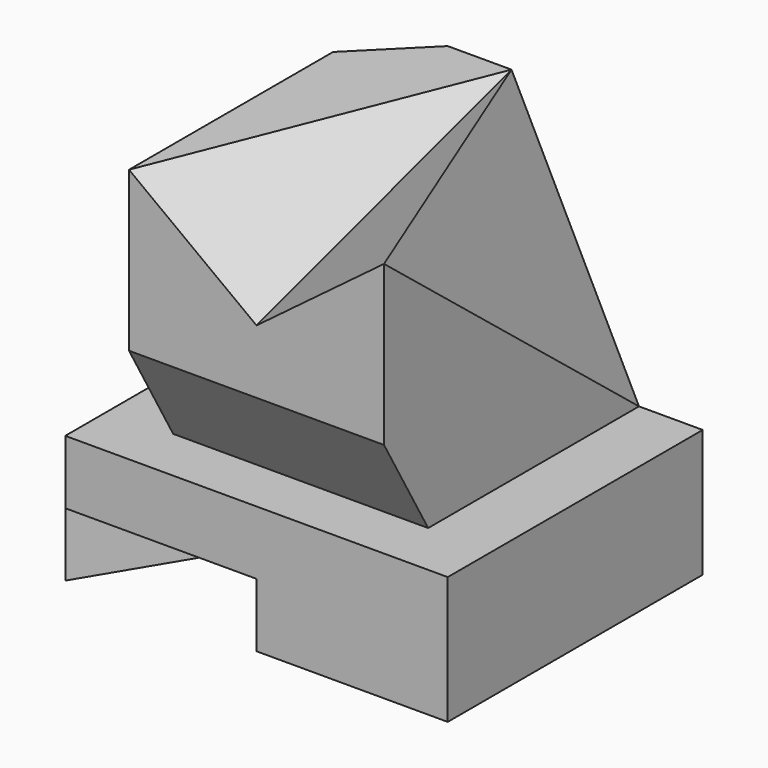
from build123d import *

# Parameters (mm, degrees)
F0_W     = 60
F0_H     = 50
F1_DEPTH = 20
F2_W     = 40
F2_H     = 50
F3_DEPTH = 40
F5_DEPTH = 40
F7_DEPTH = 10
F14_SIZE = 10


with BuildPart() as f1:
    # F0 (on Top) → F1 (new body)
    with BuildSketch(Plane.XY):
        with Locations((0, -2.2433525367)):
            Rectangle(F0_W, F0_H)
    extrude(amount=F1_DEPTH)

    # F2 (on face) → F3 (join)
    with BuildSketch(Plane.XY.offset(20)):
        with Locations((0, -2.2433525367)):
            Rectangle(F2_W, F2_H)
    extrude(amount=F3_DEPTH)

    # F4 (on face) → F5 (cut, through all)
    with BuildSketch(Plane.YZ.offset(20)):
        Polygon((-18.5830984988, 20), (-27.2433525367, 35), (-27.2433525367, 20), align=None)
    extrude(amount=-F5_DEPTH, mode=Mode.SUBTRACT)

    # F6 (on face) → F7 (cut)
    with BuildSketch(Plane(origin=(0, 0, 0), x_dir=(1, 0, 0), z_dir=(0, 0, -1))):
        Polygon((0, 27.2433525367), (-30, 27.2433525367), (0, -22.7566474633), (30, -22.7566474633), align=None)
    extrude(amount=-F7_DEPTH, mode=Mode.SUBTRACT)

    # F10: sweep along a path in F9
    with BuildLine(Plane.YZ.offset(20)) as f10_path:
        Line((-27.2433525367, 45), (22.7566474633, 60))
    # F8 (on face) → F10 (sweep, cut)
    with BuildSketch(Plane.XZ.offset(27.2433525367)):
        Polygon((20, 60), (-20, 60), (0, 45), align=None)
    sweep(path=f10_path.line, mode=Mode.SUBTRACT)

    # F13: sweep along a path in F12
    with BuildLine(Plane.YZ.offset(20)) as f13_path:
        Line((-27.2433525367, 60), (22.7566474633, 20))
    # F11 (on face) → F13 (sweep, cut)
    with BuildSketch(Plane(origin=(0, 22.7566474633, 0), x_dir=(-1, 0, 0), z_dir=(0, 1, 0))):
        Polygon((0, 60), (-20, 60), (-20, 20), align=None)
    sweep(path=f13_path.line, mode=Mode.SUBTRACT)

    # F14
    f14_edges = [f1.edges().sort_by_distance(p)[0] for p in [
        (-20, 22.756647, 40),
    ]]
    chamfer(f14_edges, length=F14_SIZE)


solid = f1.part
